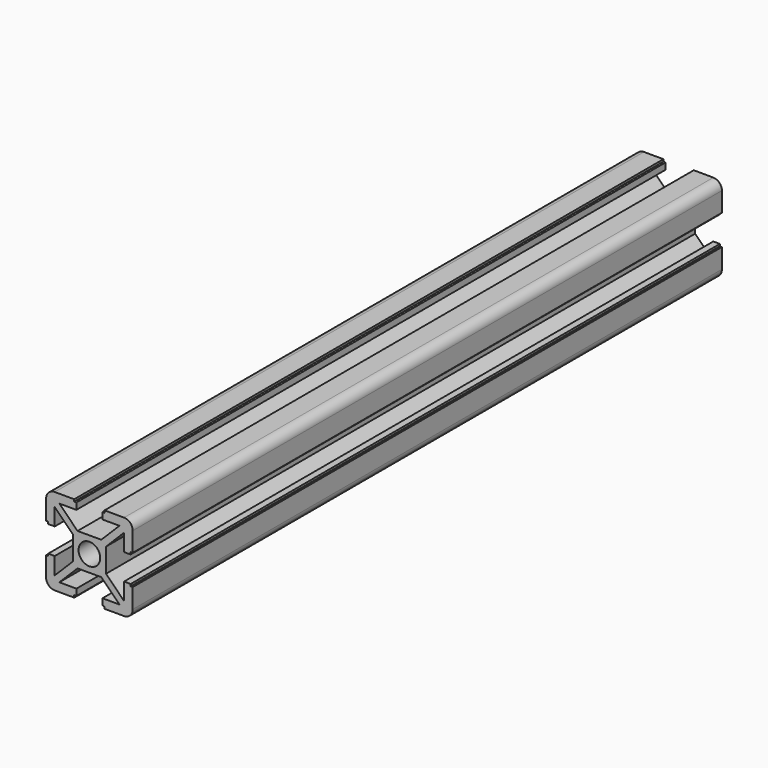
from build123d import *

# Parameters (mm, degrees)
F0_R     = 2.5
F2_DEPTH = 170


with BuildPart() as f2:
    # F0 (on Front) → F2 (new body)
    with BuildSketch(Plane.XZ):
        with BuildLine():
            Line((6.5, 0), (2, 0))
            ThreePointArc((2, 0), (0.5857864376, -0.5857864376), (0, -2))
            Line((0, -2), (0, -6.4857100192))
            Line((0, -6.4857100192), (0.4948230833, -6.489995392))
            Line((0.4948230833, -6.489995392), (0.4948230833, -7))
            Line((0.4948230833, -7), (2, -7))
            Line((2, -7), (2, -3.0833937817))
            Line((2, -3.0833937817), (6.2, -7.2637052917))
            Line((6.2, -7.2637052917), (6.2, -12.7393398282))
            Line((6.2, -12.7393398282), (2, -16.9393398282))
            Line((2, -16.9393398282), (2, -13))
            Line((2, -13), (0.5, -13))
            Line((0.5, -13), (0.5, -13.5))
            Line((0.5, -13.5), (0, -13.5))
            Line((0, -13.5), (0, -18))
            ThreePointArc((0, -18), (0.5857864376, -19.4142135624), (2, -20))
            Line((2, -20), (6.5, -20))
            Line((6.5, -20), (6.5, -19.5))
            Line((6.5, -19.5), (7, -19.5))
            Line((7, -19.5), (7, -18))
            Line((7, -18), (3.0606601718, -18))
            Line((3.0606601718, -18), (7.2606601718, -13.8))
            Line((7.2606601718, -13.8), (12.7393398282, -13.8))
            Line((12.7393398282, -13.8), (16.9393398282, -18))
            Line((16.9393398282, -18), (13.015800612, -18))
            Line((13.015800612, -18), (13.015800612, -19.5))
            Line((13.015800612, -19.5), (13.5, -19.5))
            Line((13.5, -19.5), (13.5, -20))
            Line((13.5, -20), (18, -20))
            ThreePointArc((18, -20), (19.4142135624, -19.4142135624), (20, -18))
            Line((20, -18), (20, -13.4626608249))
            Line((20, -13.4626608249), (19.5363645284, -13.4624647606))
            Line((19.5363645284, -13.4624647606), (19.532302618, -12.9822008219))
            Line((19.532302618, -12.9822008219), (18, -12.9822008219))
            Line((18, -12.9822008219), (17.9998106987, -16.9393398192))
            Line((17.9998106987, -16.9393398192), (13.8264202785, -12.765949399))
            Line((13.8264202785, -12.765949399), (13.8264202785, -7.246708479))
            Line((13.8264202785, -7.246708479), (17.9998106987, -3.0606601627))
            Line((17.9998106987, -3.0606601627), (17.9998106987, -6.9999999909))
            Line((17.9998106987, -6.9999999909), (19.4998106987, -6.9999999909))
            Line((19.4998106987, -6.9999999909), (19.4998106987, -6.4999999909))
            Line((19.4998106987, -6.4999999909), (20, -6.4999999909))
            Line((20, -6.4999999909), (20, -2))
            ThreePointArc((20, -2), (19.4142135624, -0.5857864376), (18, 0))
            Line((18, 0), (13.4962801728, 0.0202495232))
            Line((13.4962801728, 0.0202495232), (13.5, -0.5))
            Line((13.5, -0.5), (13.015800612, -0.5))
            Line((13.015800612, -0.5), (13.015800612, -2))
            Line((13.015800612, -2), (16.9393398282, -2))
            Line((16.9393398282, -2), (12.7393121854, -6.2000276428))
            Line((12.7393121854, -6.2000276428), (7.2606601718, -6.2))
            Line((7.2606601718, -6.2), (3.0606601718, -2))
            Line((3.0606601718, -2), (7, -2))
            Line((7, -2), (7, -0.5))
            Line((7, -0.5), (6.5, -0.5))
            Line((6.5, -0.5), (6.5, 0))
        make_face()
        with Locations((10, -10)):
            Circle(F0_R, mode=Mode.SUBTRACT)
    extrude(amount=F2_DEPTH)


solid = f2.part
